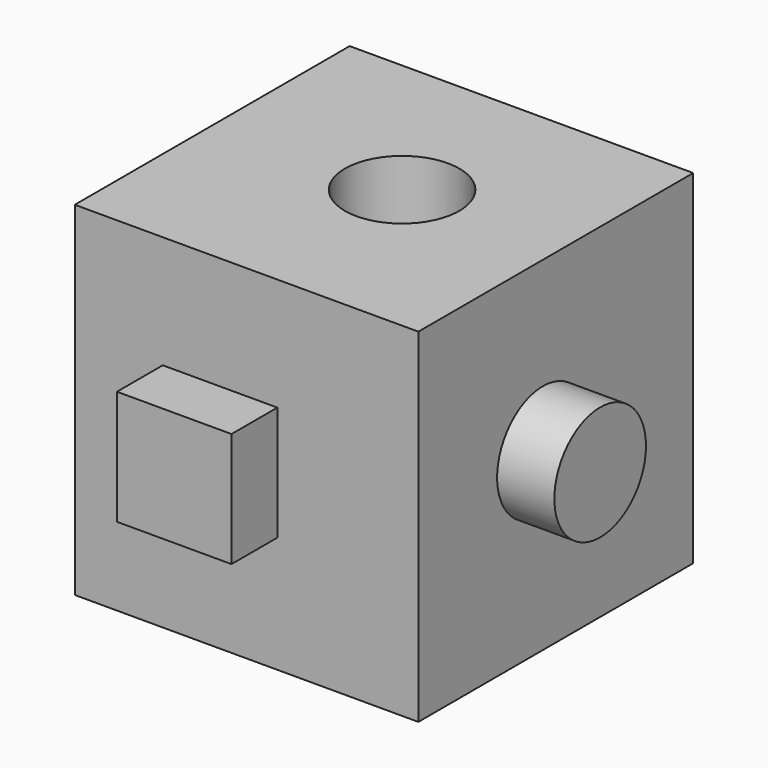
from build123d import *

# Parameters (mm, degrees)
F0_W     = 76.2
F0_H     = 76.2
F1_DEPTH = 76.2
F3_D     = 25.4
F4_R     = 12.7
F5_DEPTH = 12.7
F6_W     = 25.4
F6_H     = 25.4
F7_DEPTH = 12.7


with BuildPart() as f1:
    # F0 (on Front) → F1 (new body)
    with BuildSketch(Plane.XZ):
        with Locations((38.1, 38.1)):
            Rectangle(F0_W, F0_H)
    extrude(amount=F1_DEPTH)

    # F3 (through all)
    with Locations(Plane.XY.offset(76.2)):
        with Locations((40.751763, -36.393121)):
            Hole(F3_D / 2)

    # F4 (on face) → F5 (join)
    with BuildSketch(Plane.YZ.offset(76.2)):
        with Locations((-41.669391, 38.828444)):
            Circle(F4_R)
    extrude(amount=F5_DEPTH)

    # F6 (on face) → F7 (join)
    with BuildSketch(Plane.XZ.offset(76.2)):
        with Locations((32.215386, 38.498393)):
            Rectangle(F6_W, F6_H)
    extrude(amount=F7_DEPTH)


solid = f1.part
